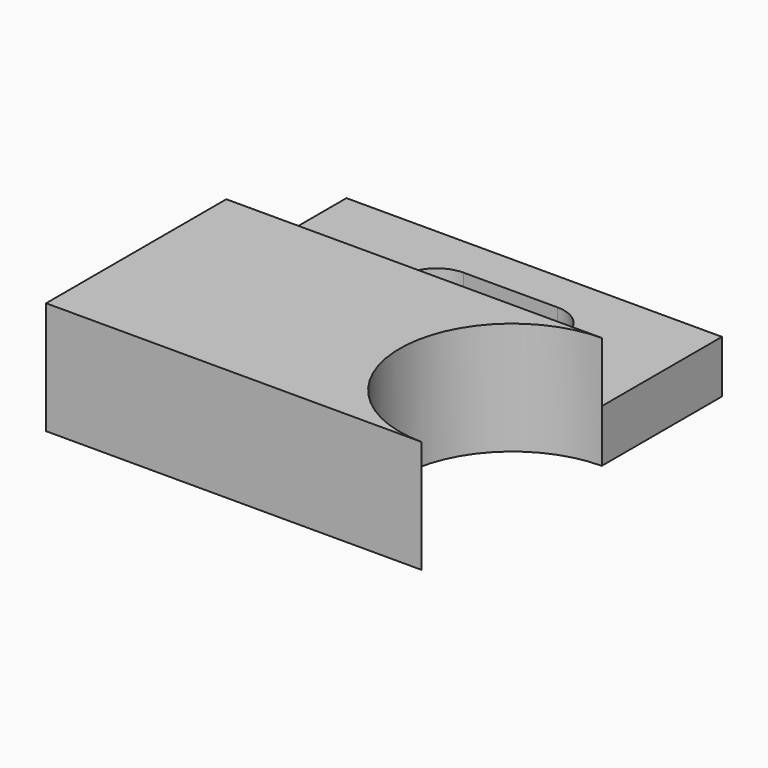
from build123d import *

# Parameters (mm, degrees)
SKETCH_W     = 20
SKETCH_H     = 20
PAD_DEPTH    = 2.8
SKETCH003_W  = 20
SKETCH003_H  = 12
PAD001_DEPTH = 3.2
POCKET_DEPTH = 10


with BuildPart() as part:
    # Sketch → Pad (new body)
    with BuildSketch(Plane.XY):
        with Locations((-10, 10)):
            Rectangle(SKETCH_W, SKETCH_H)
        with BuildLine():
            ThreePointArc((-12, 17.8), (-13.8, 16), (-12, 14.2))
            Line((-12, 14.2), (-7, 14.2))
            ThreePointArc((-7, 14.2), (-5.2, 16), (-7, 17.8))
            Line((-12, 17.8), (-7, 17.8))
        make_face(mode=Mode.SUBTRACT)
    extrude(amount=PAD_DEPTH)

    # Sketch003 → Pad001 (new body)
    with BuildSketch(Plane.XY.offset(2.8)):
        with Locations((-10, 6)):
            Rectangle(SKETCH003_W, SKETCH003_H)
    extrude(amount=PAD001_DEPTH)

    # Sketch004 → Pocket (cut)
    with BuildSketch(Plane.XY.offset(6)):
        with BuildLine():
            Line((0, 12), (0, 0))
            ThreePointArc((0, 12), (-5.963908, 6), (0, 0))
        make_face()
    extrude(amount=-POCKET_DEPTH, mode=Mode.SUBTRACT)


solid = part.part
